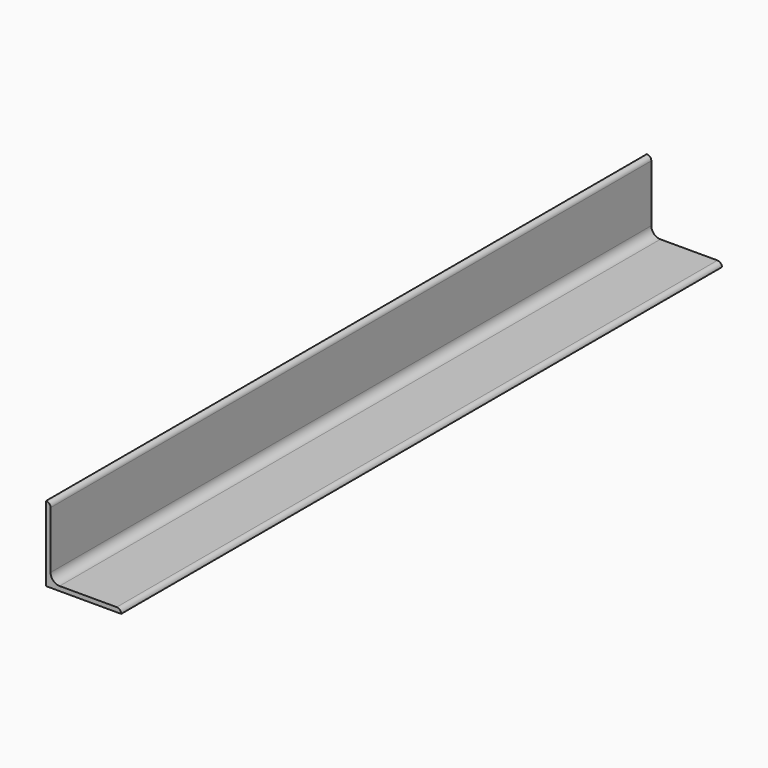
from build123d import *

# Parameters (mm, degrees)
F1_DEPTH = 500


with BuildPart() as f1:
    # F0 (on Front) → F1 (new body)
    with BuildSketch(Plane.XZ):
        with BuildLine():
            Line((0, 50), (0, 0))
            Line((0, 0), (50, 0))
            ThreePointArc((50, 0), (49.12132, 2.12132), (47, 3))
            Line((47, 3), (9, 3))
            ThreePointArc((9, 3), (4.757359, 4.757359), (3, 9))
            Line((3, 9), (3, 47))
            ThreePointArc((3, 47), (2.12132, 49.12132), (0, 50))
        make_face()
    extrude(amount=-F1_DEPTH)


solid = f1.part
